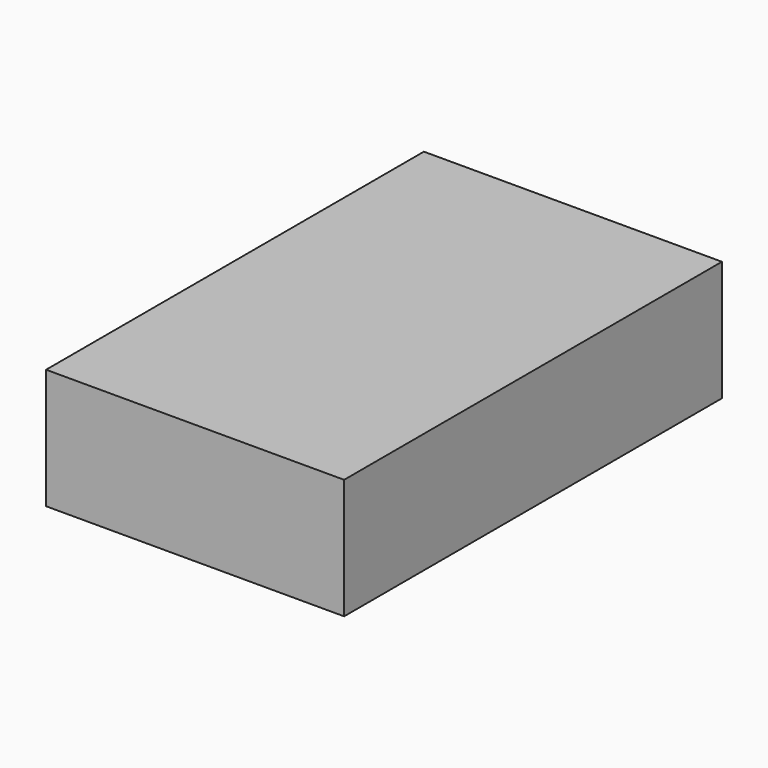
from build123d import *

# Parameters (mm, degrees)
F0_W     = 86.276724
F0_H     = 136.701972
F1_DEPTH = 34.798
F2_T     = -2.54
F3_W     = 84.527872
F3_H     = 135.53606
F4_DEPTH = 31.496


with BuildPart() as f1:
    # F0 (on Top) → F1 (new body)
    with BuildSketch(Plane.XY):
        Rectangle(F0_W, F0_H)
    extrude(amount=F1_DEPTH)

    # F2
    f2_openings = [f1.faces().sort_by_distance(p)[0] for p in [
        (0, 0, 0),
        (0, 68.350986, 17.399),
    ]]
    offset(amount=F2_T, openings=f2_openings)

    # F3 (on Top) → F4 (join)
    with BuildSketch(Plane.XY):
        Rectangle(F3_W, F3_H)
    extrude(amount=F4_DEPTH)


solid = f1.part
